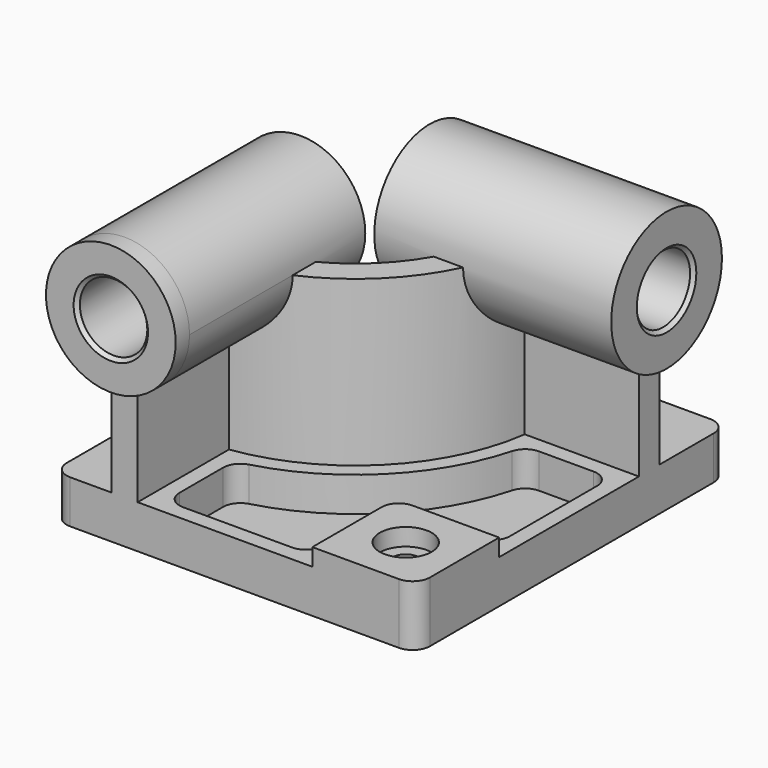
from build123d import *

# Parameters (mm, degrees)
F0_W            = 210
F0_H            = 225
F1_DEPTH        = 25
F3_DEPTH        = 95
F4_R            = 37.5
F5_DEPTH        = 10
F5_DEPTH_BACK   = 127
F6_R            = 40
F7_DEPTH        = 10
F7_DEPTH_BACK   = 127
F8_W            = 60
F8_H            = 60
F9_DEPTH        = 10
F10_R           = 10
F12_DEPTH       = 20
F14_D           = 15
F14_CBORE_D     = 30
F14_CBORE_DEPTH = 10
F15_R           = 10
F16_R           = 19.5
F17_DEPTH       = 235.001
F18_R           = 19.5
F19_DEPTH       = 220.001
F20_SIZE        = 2
F21_R           = 10


with BuildPart() as f1:
    # F0 (on Top) → F1 (new body)
    with BuildSketch(Plane.XY):
        Rectangle(F0_W, F0_H)
    extrude(amount=F1_DEPTH)

    # F2 (on face) → F3 (join)
    with BuildSketch(Plane.XY.offset(25)):
        with BuildLine():
            Line((-71, -32.5), (-71, -112.5))
            Line((-71, -112.5), (-56, -112.5))
            Line((-56, -112.5), (-56, -46.481817))
            ThreePointArc((-56, -46.481817), (7.488853, -14.988853), (38.981817, 48.5))
            Line((38.981817, 48.5), (105, 48.5))
            Line((105, 48.5), (105, 63.5))
            Line((105, 63.5), (25, 63.5))
            ThreePointArc((25, 63.5), (-3.117749, -4.382251), (-71, -32.5))
        make_face()
    extrude(amount=F3_DEPTH)

    # F4 (on face) → F5 (join, two sides)
    with BuildSketch(Plane.XZ.offset(112.5)) as f5_sk:
        with Locations((-63.5, 120)):
            Circle(F4_R)
    extrude(amount=F5_DEPTH)
    extrude(f5_sk.sketch, amount=-F5_DEPTH_BACK)

    # F6 (on face) → F7 (join, two sides)
    with BuildSketch(Plane.YZ.offset(105)) as f7_sk:
        with Locations((56, 120)):
            Circle(F6_R)
    extrude(amount=F7_DEPTH)
    extrude(f7_sk.sketch, amount=-F7_DEPTH_BACK)

    # F8 (on face) → F9 (join)
    with BuildSketch(Plane.XY.offset(25)):
        with Locations((75, -82.5)):
            Rectangle(F8_W, F8_H)
    extrude(amount=F9_DEPTH)

    # F10
    f10_edges = [f1.edges().sort_by_distance(p)[0] for p in [
        (45, -52.5, 30),
    ]]
    fillet(f10_edges, radius=F10_R)

    # F11 (on face) → F12 (cut)
    with BuildSketch(Plane.XY.offset(25)):
        with BuildLine():
            ThreePointArc((46.575508, 39.5), (13.852814, -21.352814), (-47, -54.075508))
            Line((-47, -54.075508), (-47, -103.5))
            Line((-47, -103.5), (36, -103.5))
            Line((36, -103.5), (36, -62.5))
            ThreePointArc((36, -62.5), (41.564971, -49.064971), (55, -43.5))
            Line((55, -43.5), (96, -43.5))
            Line((96, -43.5), (96, 39.5))
            Line((96, 39.5), (46.575508, 39.5))
        make_face()
    extrude(amount=-F12_DEPTH, mode=Mode.SUBTRACT)

    # F14 (through all)
    with Locations(Plane.XY.offset(35)):
        with Locations((75, -82.5)):
            CounterBoreHole(F14_D / 2, F14_CBORE_D / 2, F14_CBORE_DEPTH)

    # F15
    f15_edges = [f1.edges().sort_by_distance(p)[0] for p in [
        (46.575508, 39.5, 15),
        (-47, -54.075508, 15),
        (-47, -103.5, 15),
        (96, 39.5, 15),
        (36, -103.5, 15),
        (96, -43.5, 15),
    ]]
    fillet(f15_edges, radius=F15_R)

    # F16 (on face) → F17 (cut, through all)
    with BuildSketch(Plane.XZ.offset(122.5)):
        with Locations((-63.5, 120)):
            Circle(F16_R)
    extrude(amount=-F17_DEPTH, mode=Mode.SUBTRACT)

    # F18 (on face) → F19 (cut, through all)
    with BuildSketch(Plane.YZ.offset(115)):
        with Locations((56, 120)):
            Circle(F18_R)
    extrude(amount=-F19_DEPTH, mode=Mode.SUBTRACT)

    # F20
    f20_edges = [f1.edges().sort_by_distance(p)[0] for p in [
        (-83, -122.5, 120),
        (115, 36.5, 120),
        (-83, 14.5, 120),
        (-22, 36.5, 120),
    ]]
    chamfer(f20_edges, length=F20_SIZE)

    # F21
    f21_edges = [f1.edges().sort_by_distance(p)[0] for p in [
        (105, -112.5, 17.5),
        (105, 112.5, 12.5),
        (-105, 112.5, 12.5),
        (-105, -112.5, 12.5),
    ]]
    fillet(f21_edges, radius=F21_R)


solid = f1.part
